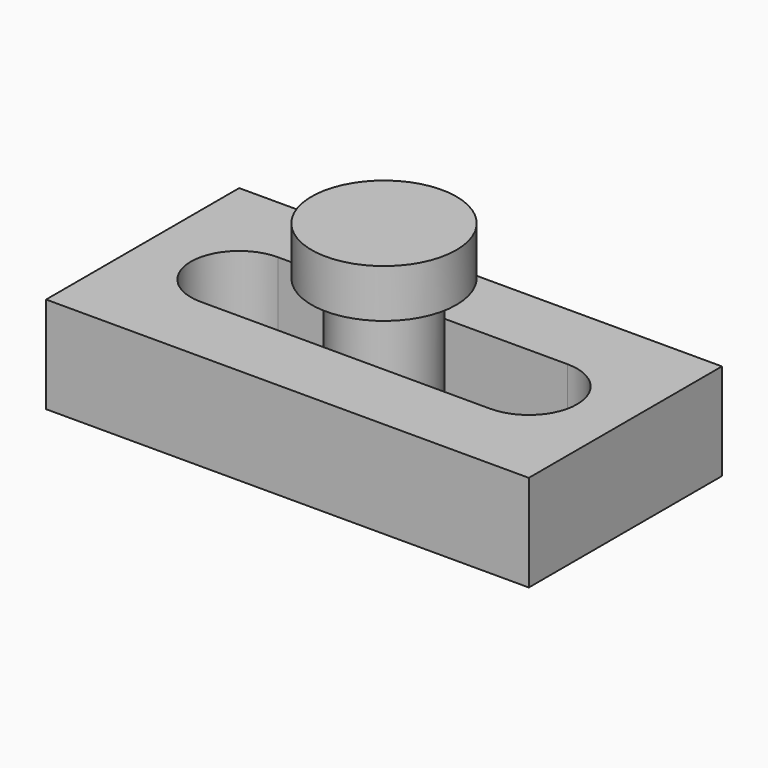
from build123d import *

# Parameters (mm, degrees)
F0_W          = 50
F0_H          = 25
F1_DEPTH      = 10
F3_DEPTH      = 10.001
F4_R          = 4.9
F5_DEPTH      = 5
F5_DEPTH_BACK = 10
F6_R          = 7.5
F6_R_2        = 4.9
F7_DEPTH      = 5


with BuildPart() as f1:
    # F0 (on Top) → F1 (new body)
    with BuildSketch(Plane.XY):
        Rectangle(F0_W, F0_H)
    extrude(amount=F1_DEPTH)

    # F2 (on face) → F3 (cut, through all)
    with BuildSketch(Plane.XY.offset(10)):
        with BuildLine():
            ThreePointArc((15, -5), (20, 0), (15, 5))
            Line((15, 5), (-15, 5))
            ThreePointArc((-15, 5), (-20, 0), (-15, -5))
            Line((-15, -5), (15, -5))
        make_face()
    extrude(amount=-F3_DEPTH, mode=Mode.SUBTRACT)


with BuildPart() as f5:
    # F4 (on face) → F5 (new body, two sides)
    with BuildSketch(Plane.XY.offset(10)) as f5_sk:
        Circle(F4_R)
    extrude(amount=F5_DEPTH)
    extrude(f5_sk.sketch, amount=-F5_DEPTH_BACK)

    # F6 (on face) → F7 (join)
    with BuildSketch(Plane.XY.offset(15)):
        Circle(F6_R)
        Circle(F6_R_2, mode=Mode.SUBTRACT)
        Circle(F6_R_2)
    extrude(amount=F7_DEPTH)


solid = Compound([f1.part, f5.part])
